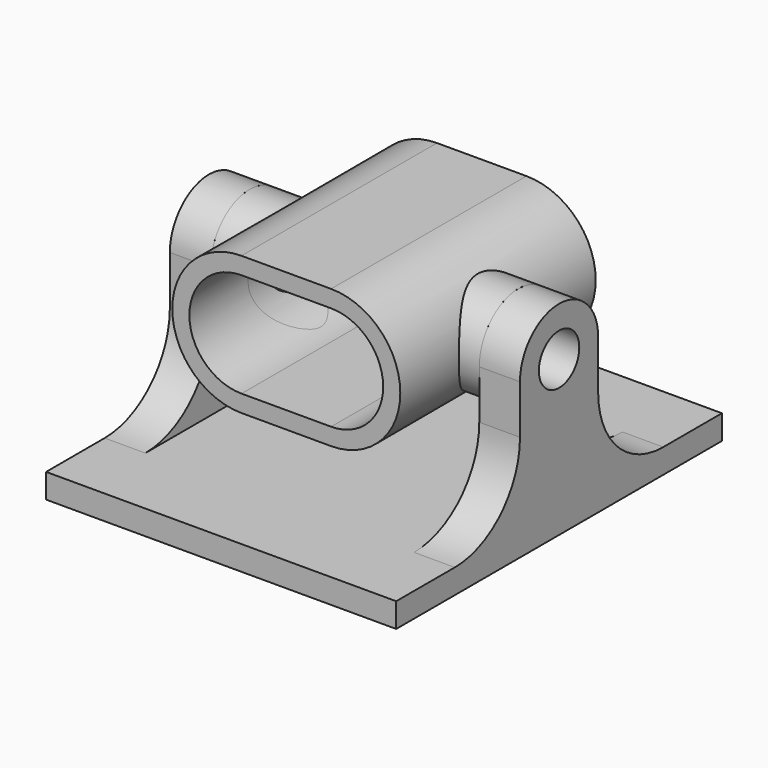
from build123d import *

# Parameters (mm, degrees)
F2_DEPTH       = 7.5
F1_R           = 3
F1_R_2         = 1.55
F3_DEPTH       = 8.25
F4_DEPTH       = 8.25
F5_DEPTH       = 7.5
F6_R           = 1.55
F7_DEPTH       = 10.75
F8_R           = 5
F9_W           = 16.5
F9_H           = 16
F10_DEPTH      = 12.501
F10_DEPTH_BACK = 12.501


with BuildPart() as f2:
    # F0 (on Front) → F2 (new body, symmetric)
    with BuildSketch(Plane.XZ):
        with BuildLine():
            Line((2.75, 4.25), (-2.75, 4.25))
            ThreePointArc((-2.75, 4.25), (-7, 0), (-2.75, -4.25))
            Line((-2.75, -4.25), (2.75, -4.25))
            ThreePointArc((2.75, -4.25), (7, 0), (2.75, 4.25))
        make_face()
        with BuildLine():
            ThreePointArc((-2.75, -3.2), (-5.95, 0), (-2.75, 3.2))
            Line((-2.75, 3.2), (2.75, 3.2))
            ThreePointArc((2.75, 3.2), (5.95, 0), (2.75, -3.2))
            Line((2.75, -3.2), (-2.75, -3.2))
        make_face(mode=Mode.SUBTRACT)
    extrude(amount=F2_DEPTH, both=True)

    # F1 (on Right) → F3 (join, symmetric)
    with BuildSketch(Plane.YZ):
        Circle(F1_R)
        Circle(F1_R_2, mode=Mode.SUBTRACT)
    extrude(amount=F3_DEPTH, both=True)

    # F1 (on Right) → F4 (cut, symmetric)
    with BuildSketch(Plane.YZ):
        Circle(F1_R_2)
    extrude(amount=F4_DEPTH, both=True, mode=Mode.SUBTRACT)

    # F0 (on Front) → F5 (cut, symmetric)
    with BuildSketch(Plane.XZ):
        with BuildLine():
            Line((2.75, 3.2), (-2.75, 3.2))
            ThreePointArc((-2.75, 3.2), (-5.95, 0), (-2.75, -3.2))
            Line((-2.75, -3.2), (2.75, -3.2))
            ThreePointArc((2.75, -3.2), (5.95, 0), (2.75, 3.2))
        make_face()
    extrude(amount=F5_DEPTH, both=True, mode=Mode.SUBTRACT)


with BuildPart() as f7:
    # F6 (on Right) → F7 (new body, symmetric)
    with BuildSketch(Plane.YZ):
        with BuildLine():
            ThreePointArc((3, 0), (0, 3), (-3, 0))
            Line((-3, 0), (-3, -8))
            Line((-3, -8), (-12.5, -8))
            Line((-12.5, -8), (-12.5, -9.5))
            Line((-12.5, -9.5), (12.5, -9.5))
            Line((12.5, -9.5), (12.5, -8))
            Line((12.5, -8), (3, -8))
            Line((3, -8), (3, 0))
        make_face()
        Circle(F6_R, mode=Mode.SUBTRACT)
    extrude(amount=F7_DEPTH, both=True)

    # F8
    f8_edges = [f7.edges().sort_by_distance(p)[0] for p in [
        (0, 3, -8),
        (0, -3, -8),
    ]]
    fillet(f8_edges, radius=F8_R)

    # F9 (on Front) → F10 (cut, two sides)
    with BuildSketch(Plane.XZ) as f10_sk:
        Rectangle(F9_W, F9_H)
    extrude(amount=F10_DEPTH, mode=Mode.SUBTRACT)
    extrude(f10_sk.sketch, amount=-F10_DEPTH_BACK, mode=Mode.SUBTRACT)


solid = Compound([f2.part, f7.part])
